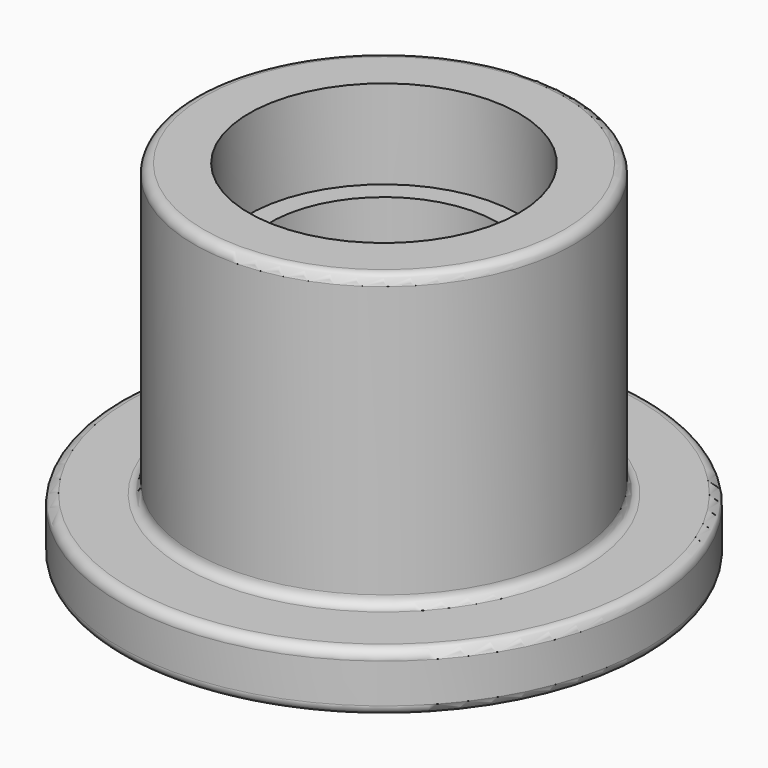
from build123d import *

# Parameters (mm, degrees)
F0_R     = 169.8625
F1_DEPTH = 38.1
F2_R     = 122.2375
F3_DEPTH = 187.325
F4_R     = 73.025
F5_DEPTH = 225.426
F6_R     = 6.35
F7_W     = 13.839457
F7_H     = 57.221944


with BuildPart() as f1:
    # F0 (on Top) → F1 (new body)
    with BuildSketch(Plane.XY):
        Circle(F0_R)
    extrude(amount=F1_DEPTH)

    # F2 (on face) → F3 (join)
    with BuildSketch(Plane.XY.offset(38.1)):
        Circle(F2_R)
    extrude(amount=F3_DEPTH)

    # F4 (on face) → F5 (cut, through all)
    with BuildSketch(Plane.XY.offset(225.425)):
        Circle(F4_R)
    extrude(amount=-F5_DEPTH, mode=Mode.SUBTRACT)

    # F6
    f6_edges = [f1.edges().sort_by_distance(p)[0] for p in [
        (-122.2375, 0, 225.425),
        (-73.025, 0, 225.425),
        (-122.2375, 0, 38.1),
        (-169.8625, 0, 38.1),
        (-169.8625, 0, 0),
        (-73.025, 0, 0),
    ]]
    fillet(f6_edges, radius=F6_R)

    # F7 (on Front) → F8 (revolve, cut)
    with BuildSketch(Plane.XZ):
        with Locations((79.944728, 196.814028)):
            Rectangle(F7_W, F7_H)
    revolve(axis=Axis((0, 0, 147.779986), (0, 0, 1)), mode=Mode.SUBTRACT)


solid = f1.part
